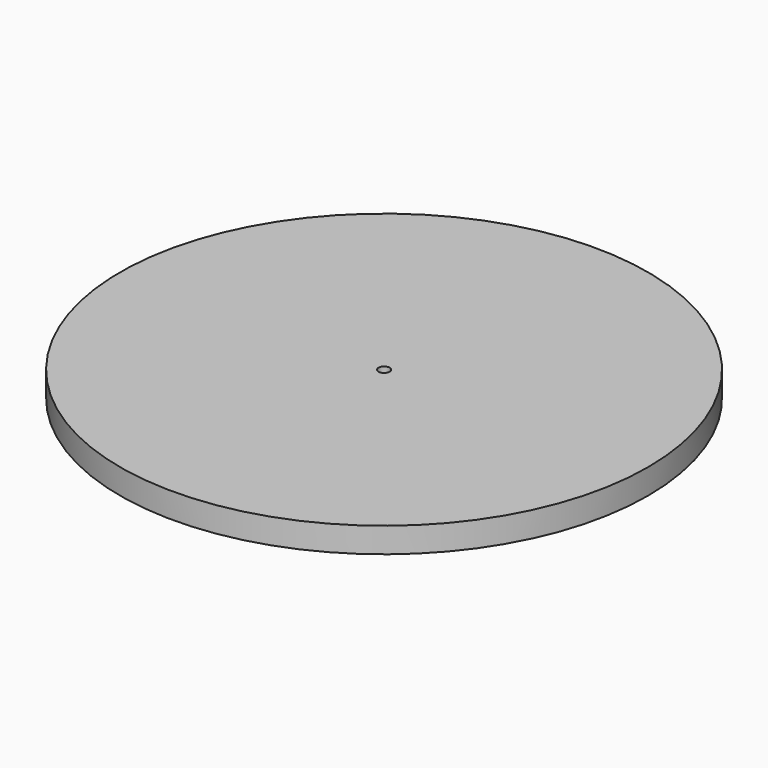
from build123d import *

# Parameters (mm, degrees)
CYLINDER006_R     = 200
CYLINDER006_DEPTH = 19.05
POCKET045_DEPTH   = 8
SKETCH106_R       = 4.2
HOLE037_DEPTH     = 11.051


with BuildPart() as part:
    # Cylinder006 → Cylinder006 (join)
    with BuildSketch(Plane.XY.offset(-19.05)):
        Circle(CYLINDER006_R)
    extrude(amount=CYLINDER006_DEPTH)

    # Sketch105 (on Face3 of Cylinder006) → Pocket045 (cut)
    with BuildSketch(Plane(origin=(0, 0, -19.05), x_dir=(1, 0, 0), z_dir=(0, 0, -1))):
        Polygon((3.810512, -6.6), (7.621024, 0), (3.810512, 6.6), (-3.810512, 6.6), (-7.621024, 0), (-3.810512, -6.6), align=None)
    extrude(amount=-POCKET045_DEPTH, mode=Mode.SUBTRACT)

    # Sketch106 (on Face10 of Pocket045) → Hole037 (cut, through all)
    with BuildSketch(Plane(origin=(0, 0, -11.05), x_dir=(1, 0, 0), z_dir=(0, 0, -1))):
        Circle(SKETCH106_R)
    extrude(amount=-HOLE037_DEPTH, mode=Mode.SUBTRACT)


with BuildPart() as part_1:
    # Body022020 placement: moved
    add(part.part.moved(Location((0, 0, -147))))


solid = part_1.part
